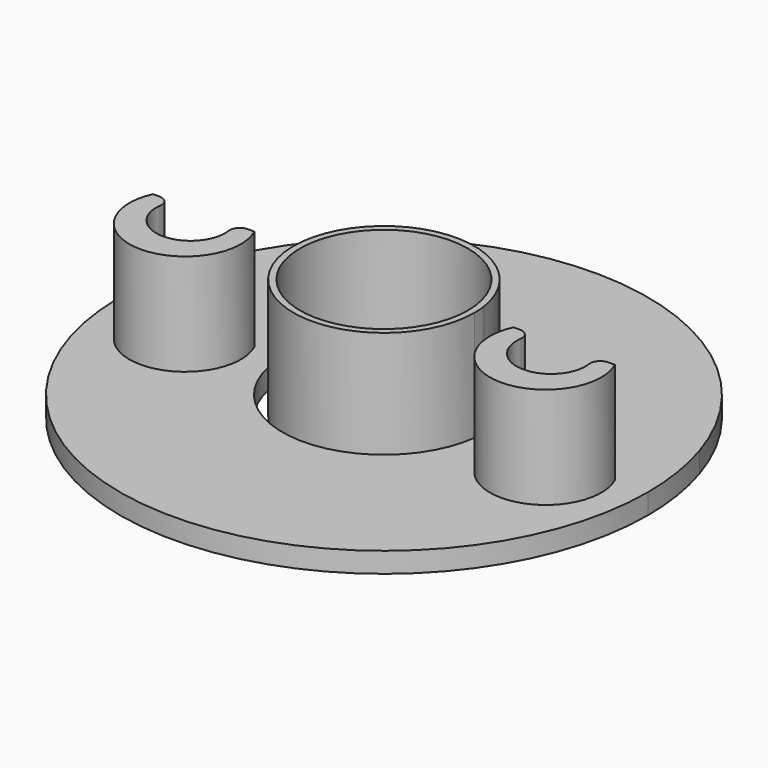
from build123d import *

# Parameters (mm, degrees)
F1_DEPTH = 6
F2_DEPTH = 1
F0_R     = 4.136169
F3_DEPTH = 6
F4_R     = 0.5


with BuildPart() as f1:
    # F0 (on Top) → F1 (new body)
    with BuildSketch(Plane.XY):
        with BuildLine():
            Line((-6.380845, 0), (-7.380845, 0))
            ThreePointArc((-7.380845, 0), (-8.87826, -2.504829), (-10.375674, 0))
            Line((-10.375674, 0), (-11.375674, 0))
            ThreePointArc((-11.375674, 0), (-8.87826, -3.886867), (-6.380845, 0))
        make_face()
        with BuildLine():
            ThreePointArc((10.375674, 0), (8.87826, -2.504829), (7.380845, 0))
            Line((7.380845, 0), (6.380845, 0))
            ThreePointArc((6.380845, 0), (8.87826, -3.886867), (11.375674, 0))
            Line((11.375674, 0), (10.375674, 0))
        make_face()
    extrude(amount=F1_DEPTH)

    # F4
    f4_edges = [f1.edges().sort_by_distance(p)[0] for p in [
        (7.380845, 0, 3),
        (10.375674, 0, 3),
        (-7.380845, 0, 3),
        (-10.375674, 0, 3),
    ]]
    fillet(f4_edges, radius=F4_R)


with BuildPart() as f2:
    # F0 (on Top) → F2 (new body)
    with BuildSketch(Plane.XY):
        with BuildLine():
            ThreePointArc((12.39353, 3.924337), (-12.847488, -1.985461), (13, 0))
            ThreePointArc((13, 0), (12.847488, 1.985461), (12.39353, 3.924337))
        make_face()
        with BuildLine():
            ThreePointArc((-10.375674, 0), (-8.87826, -2.504829), (-7.380845, 0))
            Line((-7.380845, 0), (-6.380845, 0))
            ThreePointArc((-6.380845, 0), (-8.87826, -3.886867), (-11.375674, 0))
            Line((-11.375674, 0), (-10.375674, 0))
        make_face(mode=Mode.SUBTRACT)
        with BuildLine():
            Line((6.380845, 0), (7.380845, 0))
            ThreePointArc((7.380845, 0), (8.87826, -2.504829), (10.375674, 0))
            Line((10.375674, 0), (11.375674, 0))
            ThreePointArc((11.375674, 0), (8.87826, -3.886867), (6.380845, 0))
        make_face(mode=Mode.SUBTRACT)
        with BuildLine():
            ThreePointArc((4.967694, 0.567467), (4.991917, 0.284193), (5, 0))
            ThreePointArc((5, 0), (-4.987314, -0.355951), (4.949319, 0.710096))
            Line((4.949319, 0.710096), (8.601126, 0.710096))
            Line((8.601126, 0.710096), (8.601126, 0.567467))
            Line((8.601126, 0.567467), (4.967694, 0.567467))
        make_face(mode=Mode.SUBTRACT)
    extrude(amount=F2_DEPTH)


with BuildPart() as f3:
    # F0 (on Top) → F3 (new body)
    with BuildSketch(Plane.XY):
        with BuildLine():
            ThreePointArc((4.453823, 0), (4.444739, 0.284314), (4.417524, 0.567467))
            ThreePointArc((4.417524, 0.567467), (4.407764, 0.638865), (4.396851, 0.710096))
            ThreePointArc((4.396851, 0.710096), (-4.439557, -0.356189), (4.453823, 0))
        make_face()
        Circle(F0_R, mode=Mode.SUBTRACT)
    extrude(amount=F3_DEPTH)


solid = Compound([f1.part, f2.part, f3.part])
